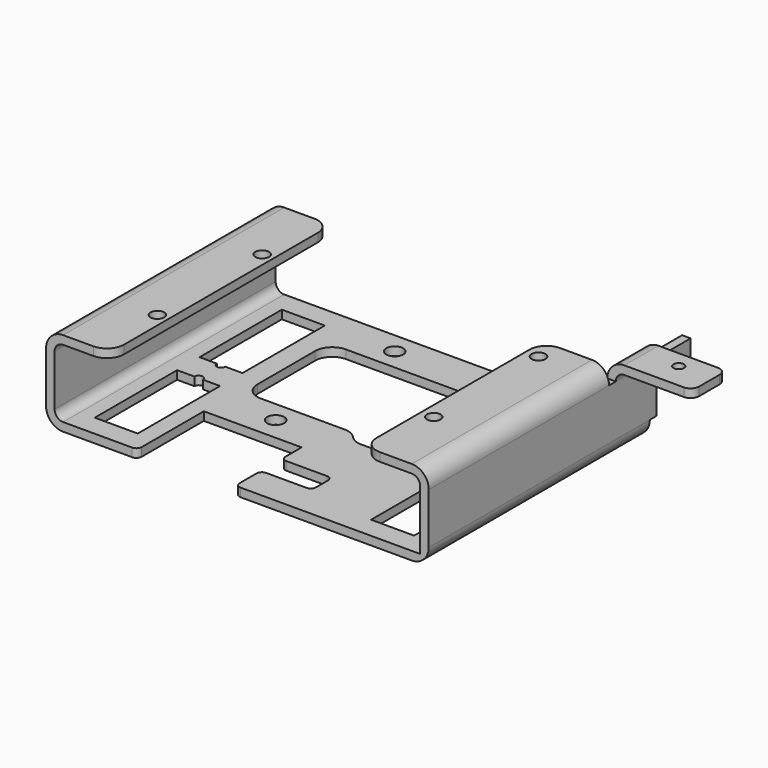
from build123d import *

# Parameters (mm, degrees)
PAD001_DEPTH    = 2
SKETCH_R        = 2
SKETCH_W        = 35
SKETCH_H        = 25
PAD_DEPTH       = 2
POCKET_DEPTH    = 5
FILLET_R        = 1.25
FILLET001_R     = 4
FILLET002_R     = 1.25
PAD002_DEPTH    = 2
SKETCH004_W     = 65
SKETCH004_H     = 20
PAD003_DEPTH    = 2
SKETCH005_W     = 15.1
SKETCH005_H     = 65
PAD004_DEPTH    = 2
SKETCH006_W     = 53
SKETCH006_H     = 4
SKETCH006_W_2   = 10
PAD005_DEPTH    = 2
SKETCH007_W     = 15.5
SKETCH007_H     = 53
SKETCH007_W_2   = 20
SKETCH007_H_2   = 10
PAD006_DEPTH    = 2
SKETCH008_R     = 2
POCKET001_DEPTH = 5
FILLET003_R     = 4
FILLET004_R     = 2
FILLET005_R     = 2
FILLET006_R     = 4
SKETCH009_R     = 1.23
SKETCH009_R_2   = 1.62
POCKET002_DEPTH = 5


with BuildPart() as pad001:
    # Sketch001 → Pad001 (new body)
    with BuildSketch(Plane.XY):
        with BuildLine():
            Line((-27.44, -27.5), (-37.55, -27.5))
            Line((-37.55, -27.5), (-37.55, -3.3))
            Line((-33.49, -3.3), (-37.55, -3.3))
            ThreePointArc((-31.49, -3.3), (-32.49, -2.3), (-33.49, -3.3))
            Line((-31.49, -3.3), (-27.44, -3.3))
            Line((-27.44, -3.3), (-27.44, -27.5))
        make_face()
    extrude(amount=PAD001_DEPTH)


with BuildPart() as part_mirroring:
    # Part__Mirroring: instance of Pad001
    add(pad001.part.mirror(Plane(origin=(0, 0, 0), x_dir=(1, 0, 0), z_dir=(0, 1, 0))))


with BuildPart() as fusion:
    # Fusion base: copy of Pad001
    add(pad001.part)

    # Fusion: union Part__Mirroring
    add(part_mirroring.part)


with BuildPart() as part_mirroring001:
    # Part__Mirroring001: instance of Fusion
    add(fusion.part.mirror(Plane(origin=(0, 0, 0), x_dir=(0, -1, 0), z_dir=(1, 0, 0))))


with BuildPart() as fusion001:
    # Fusion001 base: copy of Fusion
    add(fusion.part)

    # Fusion001: union Part__Mirroring001
    add(part_mirroring001.part)


with BuildPart() as pocket002:
    # Sketch → Pad (new body)
    with BuildSketch(Plane.XY):
        Polygon((-45, 32.5), (45, 32.5), (45, -32.5), (-0.5, -32.5), (-0.5, -25), (11.5, -25), (11.5, -19), (-0.5, -19), (-0.5, -13), (-23.5, -13), (-23.5, -32.5), (-45, -32.5), align=None)
        with Locations((-11, 27.5)):
            Circle(SKETCH_R, mode=Mode.SUBTRACT)
        with Locations((-5, 10)):
            Rectangle(SKETCH_W, SKETCH_H, mode=Mode.SUBTRACT)
    extrude(amount=PAD_DEPTH)

    # Cut: cut Fusion001
    add(fusion001.part, mode=Mode.SUBTRACT)

    # Sketch002 → Pocket (cut)
    with BuildSketch(Plane.XY.offset(2)):
        with BuildLine():
            Line((12.5, 5.25), (20.25, 5.25))
            ThreePointArc((20.25, 2.75), (21.5, 4), (20.25, 5.25))
            Line((12.5, 2.75), (20.25, 2.75))
            Line((12.5, 2.75), (12.5, -2.75))
            Line((12.5, -2.75), (20.25, -2.75))
            ThreePointArc((20.25, -5.25), (21.5, -4), (20.25, -2.75))
            Line((20.25, -5.25), (7.3, -5.25))
            ThreePointArc((4.281826, -3.875), (5.641688, -4.890055), (7.3, -5.25))
            ThreePointArc((4.281826, -3.875), (2.921964, -2.859945), (1.263652, -2.5))
            Line((1.263652, -2.5), (12.5, 5.25))
        make_face()
    extrude(amount=-POCKET_DEPTH, mode=Mode.SUBTRACT)

    # Fillet
    fillet_edges = [pocket002.edges().sort_by_distance(p)[0] for p in [
        (-23.5, -32.5, 1),
        (-0.5, -32.5, 1),
        (-0.5, -19, 1),
        (-0.5, -25, 1),
        (11.5, -25, 1),
        (11.5, -19, 1),
    ]]
    fillet(fillet_edges, radius=FILLET_R)

    # Fillet001
    fillet001_edges = [pocket002.edges().sort_by_distance(p)[0] for p in [
        (-22.5, -2.5, 1),
        (-22.5, 22.5, 1),
        (12.5, 22.5, 1),
    ]]
    fillet(fillet001_edges, radius=FILLET001_R)

    # Fillet002
    fillet002_edges = [pocket002.edges().sort_by_distance(p)[0] for p in [
        (12.5, 5.25, 1),
        (12.5, 2.75, 1),
        (12.5, -2.75, 1),
    ]]
    fillet(fillet002_edges, radius=FILLET002_R)

    # Sketch003 → Pad002 (new body)
    with BuildSketch(Plane.YZ.offset(45)):
        Polygon((-32.5, 0), (32.5, 0), (32.5, 4), (34.5, 4), (34.5, 10), (44.5, 10), (44.5, 16), (32.5, 16), (-32.5, 16), align=None)
    extrude(amount=-PAD002_DEPTH)

    # Sketch004 → Pad003 (new body)
    with BuildSketch(Plane(origin=(-45, 0, 0), x_dir=(0, -1, 0), z_dir=(-1, 0, 0))):
        with Locations((0, 10)):
            Rectangle(SKETCH004_W, SKETCH004_H)
    extrude(amount=-PAD003_DEPTH)

    # Sketch005 → Pad004 (new body)
    with BuildSketch(Plane.XY.offset(20)):
        with Locations((-37.45, 0)):
            Rectangle(SKETCH005_W, SKETCH005_H)
    extrude(amount=-PAD004_DEPTH)

    # Sketch006 → Pad005 (new body)
    with BuildSketch(Plane.YZ.offset(45)):
        with Locations((-6, 18)):
            Rectangle(SKETCH006_W, SKETCH006_H)
        with Locations((27.5, 18)):
            Rectangle(SKETCH006_W_2, SKETCH006_H)
    extrude(amount=-PAD005_DEPTH)

    # Sketch007 → Pad006 (new body)
    with BuildSketch(Plane.XY.offset(20)):
        with Locations((37.25, -6)):
            Rectangle(SKETCH007_W, SKETCH007_H)
        with Locations((53, 27.5)):
            Rectangle(SKETCH007_W_2, SKETCH007_H_2)
    extrude(amount=-PAD006_DEPTH)

    # Sketch008 → Pocket001 (cut)
    with BuildSketch(Plane(origin=(0, 0, 0), x_dir=(1, 0, 0), z_dir=(0, 0, -1))):
        with Locations((-11, 7.5)):
            Circle(SKETCH008_R)
    extrude(amount=-POCKET001_DEPTH, mode=Mode.SUBTRACT)

    # Fillet003
    fillet003_edges = [pocket002.edges().sort_by_distance(p)[0] for p in [
        (45, -6, 20),
        (43, 27.5, 20),
        (45, 0, 0),
        (-45, 0, 0),
        (-45, 0, 20),
    ]]
    fillet(fillet003_edges, radius=FILLET003_R)

    # Fillet004
    fillet004_edges = [pocket002.edges().sort_by_distance(p)[0] for p in [
        (-43, 0, 18),
        (-43, 0, 2),
        (43, -6, 18),
        (45, 27.5, 18),
    ]]
    fillet(fillet004_edges, radius=FILLET004_R)

    # Fillet005
    fillet005_edges = [pocket002.edges().sort_by_distance(p)[0] for p in [
        (63, 32.5, 19),
        (63, 22.5, 19),
    ]]
    fillet(fillet005_edges, radius=FILLET005_R)

    # Fillet006
    fillet006_edges = [pocket002.edges().sort_by_distance(p)[0] for p in [
        (29.5, 20.5, 19),
        (-29.9, 32.5, 19),
        (29.5, -32.5, 19),
        (-29.9, -32.5, 19),
    ]]
    fillet(fillet006_edges, radius=FILLET006_R)

    # Sketch009 → Pocket002 (cut)
    with BuildSketch(Plane.XY.offset(20)):
        with Locations((55, 28.5)):
            Circle(SKETCH009_R)
        with Locations((32.5, 15.4)):
            Circle(SKETCH009_R_2)
        with Locations((-32.5, 15.4)):
            Circle(SKETCH009_R_2)
        with Locations((-32.5, -15.4)):
            Circle(SKETCH009_R_2)
        with Locations((32.5, -15.4)):
            Circle(SKETCH009_R_2)
    extrude(amount=-POCKET002_DEPTH, mode=Mode.SUBTRACT)


solid = pocket002.part
